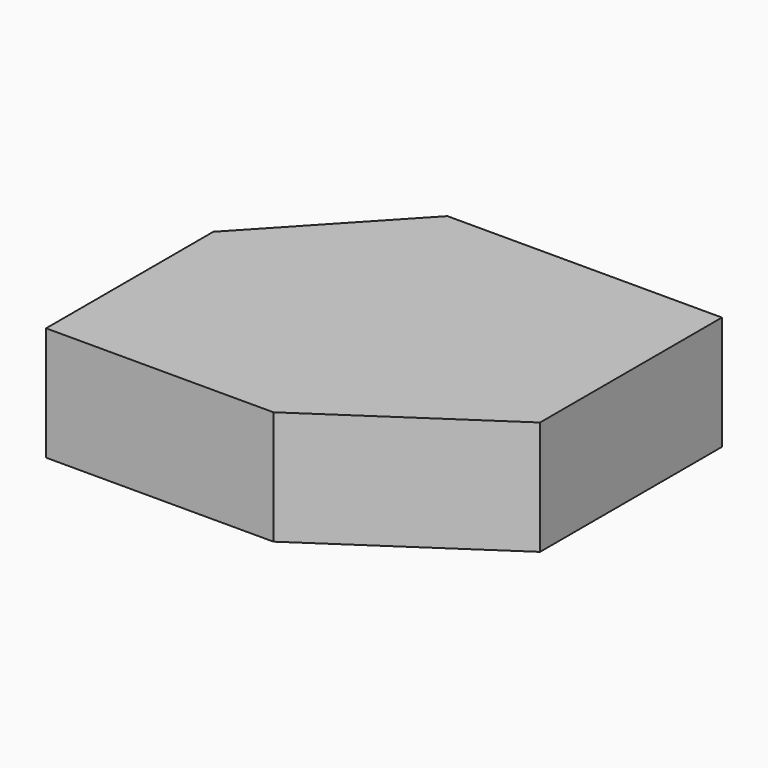
from build123d import *

# Parameters (mm, degrees)
F0_W     = 49.89262
F0_H     = 45.875841
F1_DEPTH = 25


with BuildPart() as f1:
    # F0 (on Top) → F1 (new body)
    with BuildSketch(Plane.XY):
        Polygon((-7.927853, 67.862414), (-35.622485, 38.265102), (14.270135, 38.265102), (52.323829, 67.862414), align=None)
        with Locations((-10.676175, 15.327182)):
            Rectangle(F0_W, F0_H)
        Polygon((52.323829, 67.862414), (14.270135, 38.265102), (14.270135, -7.610739), (52.323829, 17.9698), align=None)
    extrude(amount=F1_DEPTH)


solid = f1.part
